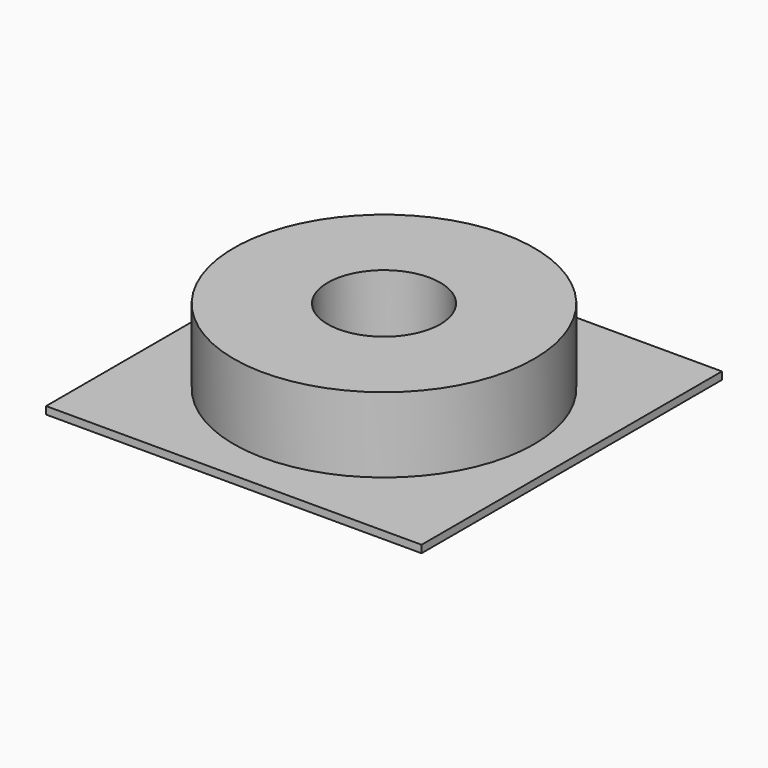
from build123d import *

# Parameters (mm, degrees)
F0_W     = 50
F0_H     = 50
F1_DEPTH = 1
F2_R     = 20
F3_DEPTH = 10
F4_R     = 7.5
F5_DEPTH = 10


with BuildPart() as f1:
    # F0 (on Top) → F1 (new body)
    with BuildSketch(Plane.XY):
        Rectangle(F0_W, F0_H)
    extrude(amount=F1_DEPTH)

    # F2 (on face) → F3 (join)
    with BuildSketch(Plane.XY.offset(1)):
        Circle(F2_R)
    extrude(amount=F3_DEPTH)

    # F4 (on face) → F5 (cut)
    with BuildSketch(Plane.XY.offset(11)):
        Circle(F4_R)
    extrude(amount=-F5_DEPTH, mode=Mode.SUBTRACT)


solid = f1.part
